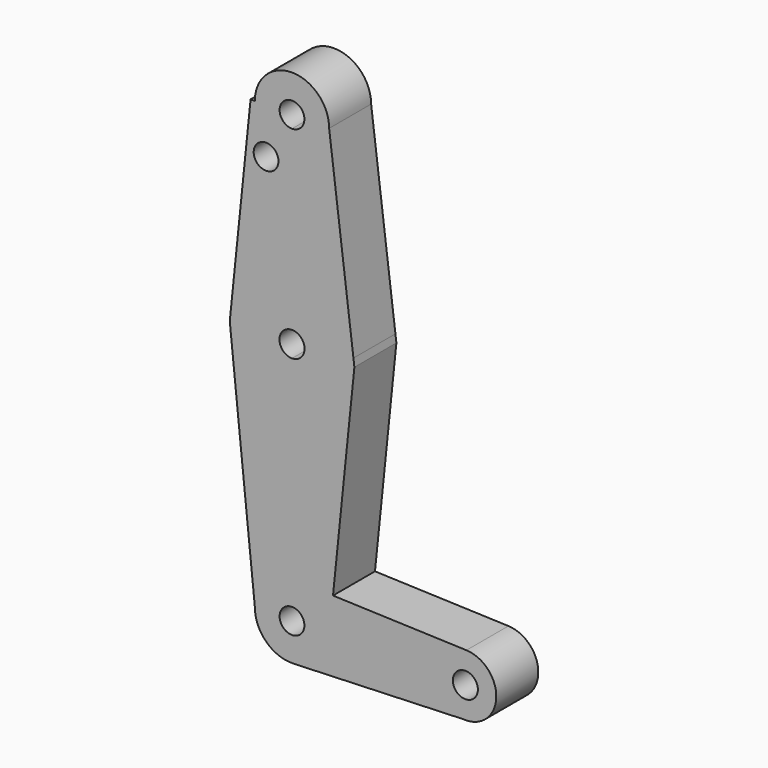
from build123d import *

# Parameters (mm, degrees)
F0_R     = 3.175
F0_R_2   = 3.2125000766
F1_DEPTH = 13.462


with BuildPart() as f1:
    # F0 (on Front) → F1 (new body)
    with BuildSketch(Plane.XZ):
        with BuildLine():
            Line((0.6752318695, -37.168887578), (0, -37.1449129145))
            ThreePointArc((0, -37.1449129145), (-6.732176658, -39.9334717905), (-9.520735534, -46.6656484485))
            ThreePointArc((-9.520735534, -46.6656484485), (-6.6063072231, -53.5213840022), (0.3526843955, -56.1798493516))
            ThreePointArc((0.3526843955, -56.1798493516), (6.8557355537, -53.2719556715), (9.520735534, -46.6656484485))
            ThreePointArc((9.520735534, -46.6656484485), (9.5207025934, -46.640603759), (9.5206037718, -46.6155592429))
            ThreePointArc((9.5206037718, -46.6155592429), (6.9497242745, -40.1582881837), (0.6752318695, -37.168887578))
        make_face()
        with BuildLine():
            ThreePointArc((3.1789196841, -46.6656484485), (-2.2478356655, -48.913484114), (0, -43.4867287643))
            ThreePointArc((0, -43.4867287643), (2.2478356655, -44.417812783), (3.1789196841, -46.6656484485))
        make_face(mode=Mode.SUBTRACT)
        with BuildLine():
            ThreePointArc((-9.520735534, -46.6656484485), (-6.732176658, -39.9334717905), (0, -37.1449129145))
            Line((0, -37.1449129145), (0, -0.0456827283))
            ThreePointArc((0, -0.0456827283), (-10.6346002703, 4.042846125), (-15.7914216368, 14.2024713389))
            Line((-15.7914216368, 14.2024713389), (-9.520735534, -46.6656484485))
        make_face()
        with BuildLine():
            Line((0, -0.0456827283), (0, -37.1449129145))
            ThreePointArc((0, -37.1449129145), (0.3378286777, -37.1509084682), (0.6752318695, -37.168887578))
            Line((0.6752318695, -37.168887578), (10.5117630226, -37.5181417163))
            Line((10.5117630226, -37.5181417163), (15.9984602919, 15.8293172717))
            Line((15.9984602919, 15.8293172717), (15.7524925282, 17.7977186917))
            ThreePointArc((15.7524925282, 17.7977186917), (15.8443435314, 16.8154222649), (15.875, 15.8293172717))
            ThreePointArc((15.875, 15.8293172717), (11.2253201513, 4.6039971204), (0, -0.0456827283))
        make_face()
        with BuildLine():
            ThreePointArc((-15.7914216368, 14.2024713389), (-10.6346002703, 4.042846125), (0, -0.0456827283))
            Line((0, -0.0456827283), (0, 12.6115512793))
            ThreePointArc((0, 12.6115512793), (-3.2177659924, 15.8293172717), (0, 19.0470832641))
            Line((0, 19.0470832641), (0, 31.7043172717))
            ThreePointArc((0, 31.7043172717), (-10.6346003107, 27.615788382), (-15.7914216479, 17.4561630963))
            ThreePointArc((-15.7914216479, 17.4561630963), (-15.875, 15.8293172173), (-15.7914216368, 14.2024713389))
        make_face()
        with BuildLine():
            Line((0, 12.6115512793), (0, -0.0456827283))
            ThreePointArc((0, -0.0456827283), (11.2253201513, 4.6039971204), (15.875, 15.8293172717))
            ThreePointArc((15.875, 15.8293172717), (15.8443435314, 16.8154222649), (15.7524925282, 17.7977186917))
            ThreePointArc((15.7524925282, 17.7977186917), (10.5063612269, 27.7302415539), (0, 31.7043172717))
            Line((0, 31.7043172717), (0, 19.0470832641))
            ThreePointArc((0, 19.0470832641), (2.2753041535, 18.1046214252), (3.2177659924, 15.8293172717))
            ThreePointArc((3.2177659924, 15.8293172717), (2.2753041535, 13.5540131182), (0, 12.6115512793))
        make_face()
        with BuildLine():
            Line((10.5117630226, -37.5181417163), (0.6752318695, -37.168887578))
            ThreePointArc((0.6752318695, -37.168887578), (6.9497242745, -40.1582881837), (9.5206037718, -46.6155592429))
            Line((9.5206037718, -46.6155592429), (9.5709571967, -46.6656484485))
            Line((9.5709571967, -46.6656484485), (10.5117630226, -37.5181417163))
        make_face()
        with BuildLine():
            Line((-15.9590207054, 15.8293172717), (-15.7914216368, 14.2024713389))
            ThreePointArc((-15.7914216368, 14.2024713389), (-15.875, 15.8293172173), (-15.7914216479, 17.4561630963))
            Line((-15.7914216479, 17.4561630963), (-15.9590207054, 15.8293172717))
        make_face()
        with BuildLine():
            ThreePointArc((9.520735534, -46.6656484485), (6.8557355537, -53.2719556715), (0.3526843955, -56.1798493516))
            Line((0.3526843955, -56.1798493516), (43.741436841, -54.5714592544))
            ThreePointArc((43.741436841, -54.5714592544), (36.5279675822, -46.1703620453), (44.7316499965, -38.7331469811))
            Line((44.7316499965, -38.7331469811), (10.5117630226, -37.5181417163))
            Line((10.5117630226, -37.5181417163), (9.5709571967, -46.6656484485))
            Line((9.5709571967, -46.6656484485), (9.5206037718, -46.6155592429))
            ThreePointArc((9.5206037718, -46.6155592429), (9.5207025934, -46.640603759), (9.520735534, -46.6656484485))
        make_face()
        with BuildLine():
            Line((-10.6220214741, 67.6343515515), (-15.7914216479, 17.4561630963))
            ThreePointArc((-15.7914216479, 17.4561630963), (-10.6346003107, 27.615788382), (0, 31.7043172717))
            Line((0, 31.7043172717), (0, 58.1093515515))
            ThreePointArc((0, 58.1093515515), (-6.7351920908, 60.8991594607), (-9.525, 67.6343515515))
            Line((-9.525, 67.6343515515), (-10.6220214741, 67.6343515515))
        make_face()
        with Locations((-6.6473968327, 55.9782646596)):
            Circle(F0_R, mode=Mode.SUBTRACT)
        with BuildLine():
            ThreePointArc((0, 31.7043172717), (10.5063612269, 27.7302415539), (15.7524925282, 17.7977186917))
            Line((15.7524925282, 17.7977186917), (9.525, 67.6343515515))
            ThreePointArc((9.525, 67.6343515515), (6.7351920908, 60.8991594607), (0, 58.1093515515))
            Line((0, 58.1093515515), (0, 31.7043172717))
        make_face()
        with BuildLine():
            ThreePointArc((44.7316499965, -38.7331469811), (36.5279675822, -46.1703620453), (43.741436841, -54.5714592544))
            ThreePointArc((43.741436841, -54.5714592544), (49.8062900489, -52.5234691321), (52.3875, -46.6656484485))
            ThreePointArc((52.3875, -46.6656484485), (50.161370374, -41.1534660584), (44.7316499965, -38.7331469811))
        make_face()
        with Locations((44.45, -46.6656484485)):
            Circle(F0_R_2, mode=Mode.SUBTRACT)
        with BuildLine():
            ThreePointArc((0, 58.1093515515), (6.7351920908, 60.8991594607), (9.525, 67.6343515515))
            ThreePointArc((9.525, 67.6343515515), (0, 77.1593515515), (-9.525, 67.6343515515))
            ThreePointArc((-9.525, 67.6343515515), (-6.7351920908, 60.8991594607), (0, 58.1093515515))
        make_face()
        with BuildLine():
            ThreePointArc((3.1789200214, 67.6343515515), (2.247835904, 65.3865156475), (0, 64.4554315301))
            ThreePointArc((0, 64.4554315301), (-2.247835904, 69.8821874555), (3.1789200214, 67.6343515515))
        make_face(mode=Mode.SUBTRACT)
    extrude(amount=F1_DEPTH)


solid = f1.part
